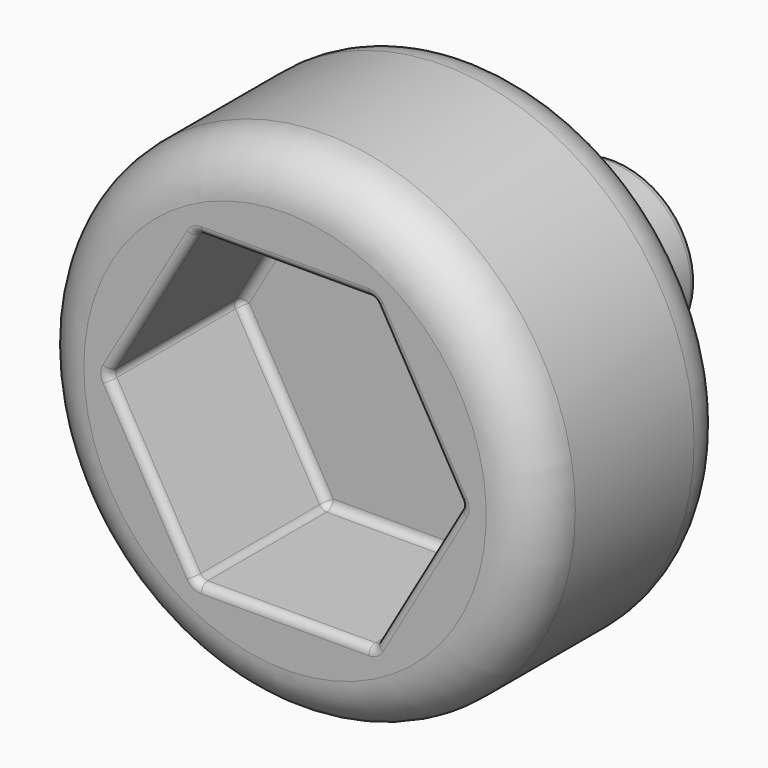
from build123d import *

# Parameters (mm, degrees)
F3_DEPTH = 1.27
F4_R     = 0.381
F5_R     = 0.0635


with BuildPart() as f1:
    # F0 (on Top) → F1 (revolve)
    with BuildSketch(Plane.XY):
        Polygon((-1.9304, -1.829002), (0, -1.829002), (0, 1.345998), (-0.635, 1.345998), (-0.635, 0.075998), (-1.9304, 0.075998), align=None)
    revolve(axis=Axis((0, -0.241502, 0), (0, 1, 0)))

    # F2 (on face) → F3 (cut)
    with BuildSketch(Plane.XZ.offset(1.829002)):
        Polygon((0.681908, 1.1811), (-0.681908, 1.1811), (-1.363817, 0), (-0.681908, -1.1811), (0.681908, -1.1811), (1.363817, 0), align=None)
    extrude(amount=-F3_DEPTH, mode=Mode.SUBTRACT)

    # F4
    f4_edges = [f1.edges().sort_by_distance(p)[0] for p in [
        (1.9304, -1.829002, 0),
        (1.9304, 0.075998, 0),
    ]]
    fillet(f4_edges, radius=F4_R)

    # F5
    f5_edges = [f1.edges().sort_by_distance(p)[0] for p in [
        (0, -1.829002, 1.1811),
        (1.022863, -1.829002, 0.59055),
        (1.022863, -1.829002, -0.59055),
        (-1.022863, -1.829002, -0.59055),
        (-1.022863, -1.829002, 0.59055),
        (1.022863, -0.559002, 0.59055),
        (1.022863, -0.559002, -0.59055),
        (0, -0.559002, 1.1811),
        (-1.022863, -0.559002, 0.59055),
        (-1.022863, -0.559002, -0.59055),
        (0, -0.559002, -1.1811),
        (0, -1.829002, -1.1811),
        (0.681908, -1.194002, 1.1811),
        (-0.681908, -1.194002, 1.1811),
        (-1.363817, -1.194002, 0),
        (-0.681908, -1.194002, -1.1811),
        (0.681908, -1.194002, -1.1811),
        (1.363817, -1.194002, 0),
        (0.635, 0.075998, 0),
        (0.635, 1.345998, 0),
    ]]
    fillet(f5_edges, radius=F5_R)


solid = f1.part
